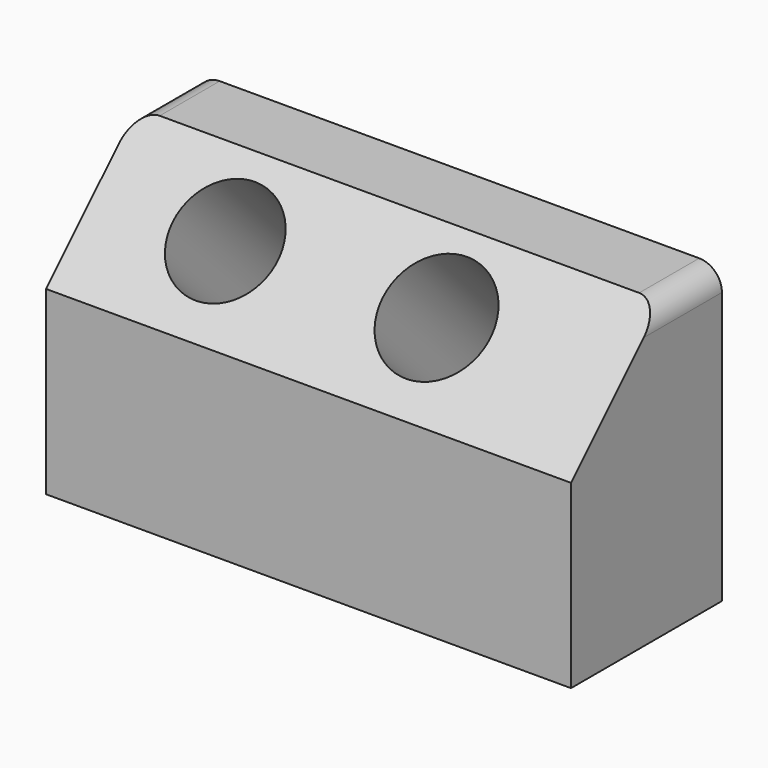
from build123d import *

# Parameters (mm, degrees)
F0_W     = 184.774049
F0_H     = 66.413805
F1_DEPTH = 103.632
F2_SIZE  = 40
F5_D     = 37
F6_D     = 38
F7_R     = 8
F8_R     = 8


with BuildPart() as f1:
    # F0 (on Top) → F1 (new body)
    with BuildSketch(Plane.XY):
        with Locations((-40.078786, 33.206902)):
            Rectangle(F0_W, F0_H)
    extrude(amount=F1_DEPTH)

    # F2
    f2_edges = [f1.edges().sort_by_distance(p)[0] for p in [
        (-40.078785, 0, 103.632),
    ]]
    chamfer(f2_edges, length=F2_SIZE)

    # F5 (through all)
    with Locations(Plane(origin=(0, -31.816, 31.816), x_dir=(1, 0, 0), z_dir=(0, -0.707107, 0.707107))):
        with Locations((-86.328603, 74.946567)):
            Hole(F5_D / 2)

    # F6 (through all)
    with Locations(Plane(origin=(0, -31.816, 31.816), x_dir=(1, 0, 0), z_dir=(0, -0.707107, 0.707107))):
        with Locations((-12.177297, 75.329065)):
            Hole(F6_D / 2)

    # F7
    f7_edges = [f1.edges().sort_by_distance(p)[0] for p in [
        (52.308239, 53.206902, 103.632),
    ]]
    fillet(f7_edges, radius=F7_R)

    # F8
    f8_edges = [f1.edges().sort_by_distance(p)[0] for p in [
        (-132.46581, 53.206902, 103.632),
    ]]
    fillet(f8_edges, radius=F8_R)


solid = f1.part
